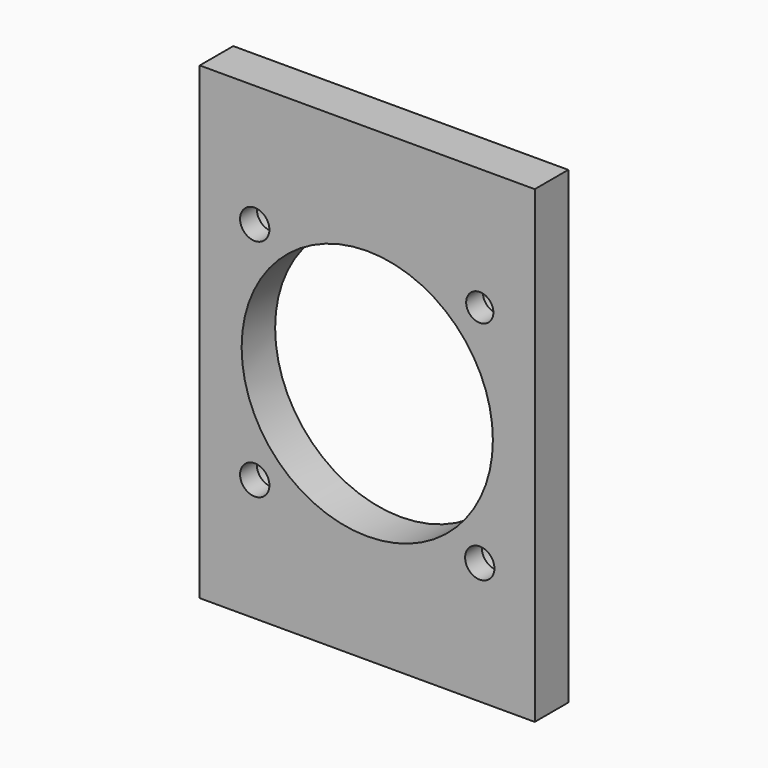
from build123d import *

# Parameters (mm, degrees)
F0_W     = 80
F0_H     = 112
F0_R     = 3.5
F0_R_2   = 30
F0_R_3   = 3.25
F1_DEPTH = 10
F2_R     = 5
F2_R_2   = 3.25
F2_R_3   = 3.5
F3_DEPTH = 5


with BuildPart() as f1:
    # F0 (on Front) → F1 (new body)
    with BuildSketch(Plane.XZ):
        Rectangle(F0_W, F0_H)
        with Locations((-26.8699, -26.870162)):
            Circle(F0_R, mode=Mode.SUBTRACT)
        with Locations((26.869772, -26.86992)):
            Circle(F0_R, mode=Mode.SUBTRACT)
        with Locations((-26.870205, 26.86991)):
            Circle(F0_R, mode=Mode.SUBTRACT)
        Circle(F0_R_2, mode=Mode.SUBTRACT)
        with Locations((26.870424, 26.869938)):
            Circle(F0_R_3, mode=Mode.SUBTRACT)
    extrude(amount=F1_DEPTH)

    # F2 (on face) → F3 (cut)
    with BuildSketch(Plane(origin=(0, 0, 0), x_dir=(-1, 0, 0), z_dir=(0, 1, 0))):
        with Locations((-26.870424, 26.869938)):
            Circle(F2_R)
        with Locations((-26.870424, 26.869938)):
            Circle(F2_R_2, mode=Mode.SUBTRACT)
        with Locations((26.870205, 26.86991)):
            Circle(F2_R)
        with Locations((26.870205, 26.86991)):
            Circle(F2_R_3, mode=Mode.SUBTRACT)
        with Locations((26.8699, -26.870162)):
            Circle(F2_R)
        with Locations((26.8699, -26.870162)):
            Circle(F2_R_3, mode=Mode.SUBTRACT)
        with Locations((-26.869772, -26.86992)):
            Circle(F2_R)
        with Locations((-26.869772, -26.86992)):
            Circle(F2_R_3, mode=Mode.SUBTRACT)
    extrude(amount=-F3_DEPTH, mode=Mode.SUBTRACT)


solid = f1.part
